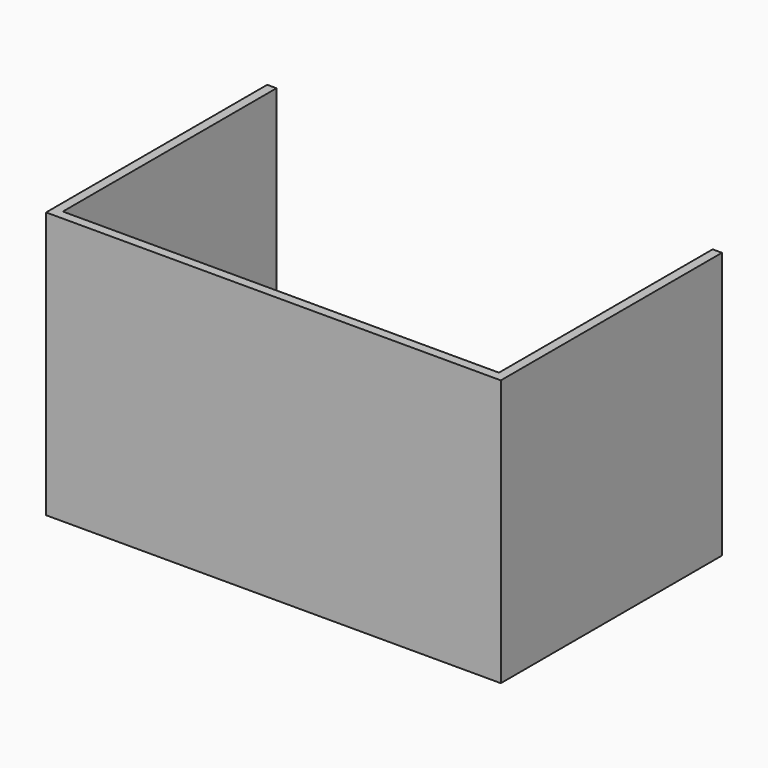
from build123d import *

# Parameters (mm, degrees)
F0_W     = 122.128874
F0_H     = 74.222378
F1_DEPTH = 71.6
F2_T     = -2.5
F3_W     = 117.128874
F3_H     = 69.1
F4_DEPTH = 25


with BuildPart() as f1:
    # F0 (on Top) → F1 (new body)
    with BuildSketch(Plane.XY):
        with Locations((61.064437, 37.111189)):
            Rectangle(F0_W, F0_H)
    extrude(amount=F1_DEPTH)

    # F2
    f2_openings = [f1.faces().sort_by_distance(p)[0] for p in [
        (61.064437, 37.111189, 71.6),
    ]]
    offset(amount=F2_T, openings=f2_openings)

    # F3 (on face) → F4 (cut)
    with BuildSketch(Plane(origin=(0, 74.222378, 0), x_dir=(-1, 0, 0), z_dir=(0, 1, 0))):
        with Locations((-61.064437, 37.05)):
            Rectangle(F3_W, F3_H)
    extrude(amount=-F4_DEPTH, mode=Mode.SUBTRACT)


solid = f1.part
